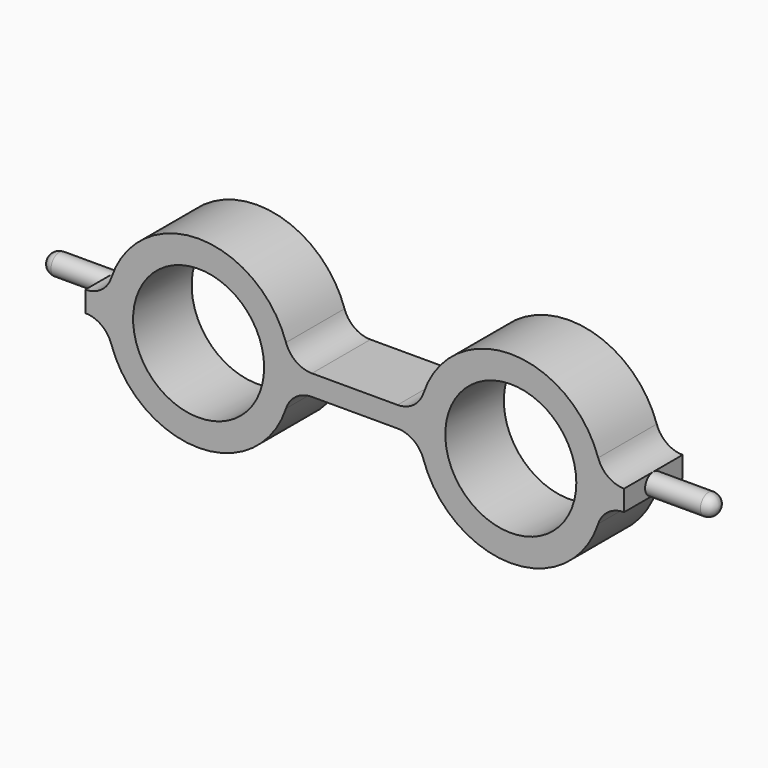
from build123d import *

# Parameters (mm, degrees)
F0_R          = 11.993757
F1_DEPTH      = 6.7
F1_DEPTH_BACK = 6.7


with BuildPart() as f1:
    # F0 (on Front) → F1 (new body, two sides)
    with BuildSketch(Plane.XZ) as f1_sk:
        with BuildLine():
            ThreePointArc((-49.327841, -1.896393), (-46.402652, -2.841362), (-44.583149, -5.319084))
            ThreePointArc((-44.583149, -5.319084), (-28.58285, -16.861264), (-12.582552, -5.319084))
            ThreePointArc((-12.582552, -5.319084), (-10.763049, -2.841362), (-7.83786, -1.896393))
            Line((-7.83786, -1.896393), (0, -1.896393))
            Line((0, -1.896393), (7.83786, -1.896393))
            ThreePointArc((7.83786, -1.896393), (10.763049, -2.841362), (12.582552, -5.319084))
            ThreePointArc((12.582552, -5.319084), (28.58285, -16.861264), (44.583149, -5.319084))
            ThreePointArc((44.583149, -5.319084), (46.402652, -2.841362), (49.327841, -1.896393))
            Line((49.327841, -1.896393), (49.327841, 0))
            Line((49.327841, 0), (49.327841, 1.896393))
            ThreePointArc((49.327841, 1.896393), (46.402652, 2.841362), (44.583149, 5.319084))
            ThreePointArc((44.583149, 5.319084), (28.58285, 16.861264), (12.582552, 5.319084))
            ThreePointArc((12.582552, 5.319084), (10.763049, 2.841362), (7.83786, 1.896393))
            Line((7.83786, 1.896393), (0, 1.896393))
            Line((0, 1.896393), (-7.83786, 1.896393))
            ThreePointArc((-7.83786, 1.896393), (-10.763049, 2.841362), (-12.582552, 5.319084))
            ThreePointArc((-12.582552, 5.319084), (-28.58285, 16.861264), (-44.583149, 5.319084))
            ThreePointArc((-44.583149, 5.319084), (-46.402652, 2.841362), (-49.327841, 1.896393))
            Line((-49.327841, 1.896393), (-49.327841, 0))
            Line((-49.327841, 0), (-49.327841, -1.896393))
        make_face()
        with Locations((-28.58285, 0)):
            Circle(F0_R, mode=Mode.SUBTRACT)
        with Locations((28.58285, 0)):
            Circle(F0_R, mode=Mode.SUBTRACT)
    extrude(amount=F1_DEPTH)
    extrude(f1_sk.sketch, amount=-F1_DEPTH_BACK)

    # F0 (on Front) → F2 (revolve)
    with BuildSketch(Plane.XZ):
        with BuildLine():
            Line((-61.351337, 0), (-49.327841, 0))
            Line((-49.327841, 0), (-49.327841, 1.896393))
            Line((-49.327841, 1.896393), (-59.454944, 1.896393))
            ThreePointArc((-59.454944, 1.896393), (-60.795896, 1.340952), (-61.351337, 0))
        make_face()
    revolve(axis=Axis((-55.339589, 0, 0), (1, 0, 0)))

    # F0 (on Front) → F3 (revolve)
    with BuildSketch(Plane.XZ):
        with BuildLine():
            Line((49.327841, 1.896393), (49.327841, 0))
            Line((49.327841, 0), (61.351337, 0))
            ThreePointArc((61.351337, 0), (60.795896, 1.340952), (59.454944, 1.896393))
            Line((59.454944, 1.896393), (49.327841, 1.896393))
        make_face()
    revolve(axis=Axis((55.339589, 0, 0), (1, 0, 0)))


solid = f1.part
